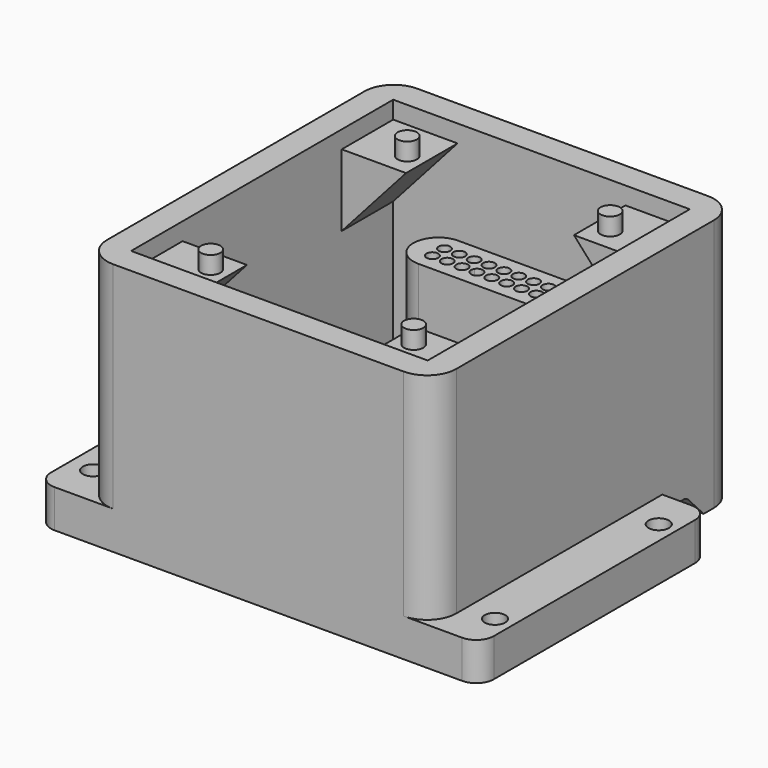
from build123d import *

# Parameters (mm, degrees)
F2_DEPTH  = 6.5
F4_DEPTH  = 21.5
F6_DEPTH  = 67.701
F7_R      = 1
F9_DEPTH  = 26
F10_W     = 11
F10_H     = 11
F11_DEPTH = 12.3
F13_DEPTH = 11
F15_DEPTH = 11
F17_DEPTH = 11
F19_DEPTH = 11
F20_R     = 1.65
F21_DEPTH = 3
F22_R     = 1.75
F23_DEPTH = 6.501
F25_DEPTH = 14


with BuildPart() as f2:
    # F1 (on Top) → F2 (new body)
    with BuildSketch(Plane.XY):
        with BuildLine():
            Line((-29.85, -32.5), (29.85, -32.5))
            Line((29.85, -32.5), (29.85, 16.5))
            Line((29.85, 16.5), (29.85, 27.5))
            ThreePointArc((29.85, 27.5), (28.3855339059, 31.0355339059), (24.85, 32.5))
            Line((24.85, 32.5), (-24.85, 32.5))
            ThreePointArc((-24.85, 32.5), (-28.3855339059, 31.0355339059), (-29.85, 27.5))
            Line((-29.85, 27.5), (-29.85, 16.5))
            Line((-29.85, 16.5), (-29.85, -32.5))
        make_face()
        with BuildLine():
            Line((-34.85, -32.5), (-29.85, -32.5))
            Line((-29.85, -32.5), (-29.85, 16.5))
            Line((-29.85, 16.5), (-34.85, 16.5))
            ThreePointArc((-34.85, 16.5), (-36.9713203436, 15.6213203436), (-37.85, 13.5))
            Line((-37.85, 13.5), (-37.85, -29.5))
            ThreePointArc((-37.85, -29.5), (-36.9713203436, -31.6213203436), (-34.85, -32.5))
        make_face()
        with BuildLine():
            Line((29.85, 16.5), (29.85, -32.5))
            Line((29.85, -32.5), (34.85, -32.5))
            ThreePointArc((34.85, -32.5), (36.9713203436, -31.6213203436), (37.85, -29.5))
            Line((37.85, -29.5), (37.85, 13.5))
            ThreePointArc((37.85, 13.5), (36.9713203436, 15.6213203436), (34.85, 16.5))
            Line((34.85, 16.5), (29.85, 16.5))
        make_face()
    extrude(amount=F2_DEPTH)

    # F3 (on face) → F4 (join)
    with BuildSketch(Plane.XY.offset(6.5)):
        with BuildLine():
            Line((-24.85, -32.5), (24.85, -32.5))
            ThreePointArc((24.85, -32.5), (28.3855339059, -31.0355339059), (29.85, -27.5))
            Line((29.85, -27.5), (29.85, 16.5))
            Line((29.85, 16.5), (29.85, 27.5))
            ThreePointArc((29.85, 27.5), (28.3855339059, 31.0355339059), (24.85, 32.5))
            Line((24.85, 32.5), (-24.85, 32.5))
            ThreePointArc((-24.85, 32.5), (-28.3855339059, 31.0355339059), (-29.85, 27.5))
            Line((-29.85, 27.5), (-29.85, 16.5))
            Line((-29.85, 16.5), (-29.85, -27.5))
            ThreePointArc((-29.85, -27.5), (-28.3855339059, -31.0355339059), (-24.85, -32.5))
        make_face()
        Polygon((25.35, 28), (25.35, -28), (-25.35, -28), (-25.35, 28), (-15.24, 28), (15.24, 28), align=None, mode=Mode.SUBTRACT)
        with BuildLine():
            ThreePointArc((-11.45, 24.54), (-15.72, 20.27), (-11.45, 16))
            Line((-11.45, 16), (11.41, 16))
            ThreePointArc((11.41, 16), (15.68, 20.27), (11.41, 24.54))
            Line((11.41, 24.54), (-11.45, 24.54))
        make_face()
    extrude(amount=F4_DEPTH)

    # F5 (on face) → F6 (cut, through all)
    with BuildSketch(Plane.YZ.offset(29.85)):
        with BuildLine():
            ThreePointArc((19.77, 3.0891519329), (19.2533881118, 3.6800026919), (18.5, 3.9))
            ThreePointArc((18.5, 3.9), (17.5100505063, 3.4899494937), (17.1, 2.5))
            ThreePointArc((17.1, 2.5), (18.1983379374, 1.132886252), (19.77, 1.9108480671))
            ThreePointArc((19.77, 1.9108480671), (19.64, 2.5), (19.77, 3.0891519329))
        make_face()
        with BuildLine():
            ThreePointArc((19.77, 1.9108480671), (18.1983379374, 1.132886252), (17.1, 2.5))
            Line((17.1, 2.5), (17.1, 0))
            Line((17.1, 0), (25.3425519913, 0))
            Line((25.3425519913, 0), (22.055509083, 3.4637122508))
            ThreePointArc((22.055509083, 3.4637122508), (22.3403293268, 3.0187905569), (22.44, 2.5))
            ThreePointArc((22.44, 2.5), (21.3416620626, 1.132886252), (19.77, 1.9108480671))
        make_face()
        with BuildLine():
            Line((21.04, 3.9), (18.5, 3.9))
            ThreePointArc((18.5, 3.9), (19.2533881118, 3.6800026919), (19.77, 3.0891519329))
            ThreePointArc((19.77, 3.0891519329), (20.2866118882, 3.6800026919), (21.04, 3.9))
        make_face()
        with BuildLine():
            ThreePointArc((21.04, 3.9), (20.2866118882, 3.6800026919), (19.77, 3.0891519329))
            ThreePointArc((19.77, 3.0891519329), (19.867113748, 2.8016620626), (19.9, 2.5))
            ThreePointArc((19.9, 2.5), (19.867113748, 2.1983379374), (19.77, 1.9108480671))
            ThreePointArc((19.77, 1.9108480671), (21.3416620626, 1.132886252), (22.44, 2.5))
            ThreePointArc((22.44, 2.5), (22.3403293268, 3.0187905569), (22.055509083, 3.4637122508))
            ThreePointArc((22.055509083, 3.4637122508), (21.5926313639, 3.7863120055), (21.04, 3.9))
        make_face()
        with BuildLine():
            ThreePointArc((19.9, 2.5), (19.867113748, 2.8016620626), (19.77, 3.0891519329))
            ThreePointArc((19.77, 3.0891519329), (19.64, 2.5), (19.77, 1.9108480671))
            ThreePointArc((19.77, 1.9108480671), (19.867113748, 2.1983379374), (19.9, 2.5))
        make_face()
    extrude(amount=-F6_DEPTH, mode=Mode.SUBTRACT)

    # F7 (on face) → F9 (cut)
    with BuildSketch(Plane.XY.offset(28)):
        with Locations((-1.29, 19)):
            Circle(F7_R)
        with Locations((-11.45, 19)):
            Circle(F7_R)
        with Locations((-8.91, 19)):
            Circle(F7_R)
        with BuildLine():
            ThreePointArc((-5.5306440941, 18.4564177493), (-5.5832558413, 18.8807732561), (-5.4072763794, 19.2704870242))
            ThreePointArc((-5.4072763794, 19.2704870242), (-7.3587112071, 19.1498337377), (-5.5306440941, 18.4564177493))
        make_face()
        with BuildLine():
            ThreePointArc((-5.5306440941, 18.4564177493), (-5.4110015887, 18.7165885552), (-5.37, 19))
            ThreePointArc((-5.37, 19), (-5.379362927, 19.1365217553), (-5.4072763794, 19.2704870242))
            ThreePointArc((-5.4072763794, 19.2704870242), (-5.5832558413, 18.8807732561), (-5.5306440941, 18.4564177493))
        make_face()
        with BuildLine():
            ThreePointArc((-4.0104824668, 18.7622771606), (-4.1975504388, 19.273052253), (-4.6702561531, 19.5421896321))
            ThreePointArc((-4.6702561531, 19.5421896321), (-4.8013330282, 18.7622771606), (-4.3248948959, 18.1310471578))
            ThreePointArc((-4.3248948959, 18.1310471578), (-4.093436152, 18.4096773549), (-4.0104824668, 18.7622771606))
        make_face()
        with BuildLine():
            ThreePointArc((-2.83, 19), (-3.5473837877, 19.9592330669), (-4.6702561531, 19.5421896321))
            ThreePointArc((-4.6702561531, 19.5421896321), (-4.1975504388, 19.273052253), (-4.0104824668, 18.7622771606))
            ThreePointArc((-4.0104824668, 18.7622771606), (-4.093436152, 18.4096773549), (-4.3248948959, 18.1310471578))
            ThreePointArc((-4.3248948959, 18.1310471578), (-3.3274539304, 18.1354495689), (-2.83, 19))
        make_face()
        with Locations((1.25, 19)):
            Circle(F7_R)
        with Locations((3.79, 19)):
            Circle(F7_R)
        with Locations((6.33, 19)):
            Circle(F7_R)
        with Locations((8.87, 19)):
            Circle(F7_R)
        with Locations((11.41, 19)):
            Circle(F7_R)
        with Locations((-11.45, 21.5807557106)):
            Circle(F7_R)
        with Locations((-8.91, 21.5807557106)):
            Circle(F7_R)
        with Locations((-6.37, 21.5807557106)):
            Circle(F7_R)
        with Locations((-3.83, 21.5807557106)):
            Circle(F7_R)
        with Locations((-1.29, 21.5807557106)):
            Circle(F7_R)
        with Locations((1.25, 21.5807557106)):
            Circle(F7_R)
        with Locations((3.79, 21.5807557106)):
            Circle(F7_R)
        with Locations((6.33, 21.5807557106)):
            Circle(F7_R)
        with Locations((8.87, 21.5807557106)):
            Circle(F7_R)
        with Locations((11.41, 21.5807557106)):
            Circle(F7_R)
    extrude(amount=-F9_DEPTH, mode=Mode.SUBTRACT)

    # F10 (on face) → F11 (join)
    with BuildSketch(Plane.XY.offset(28)):
        with BuildLine():
            Line((-29.85, 27.5), (-29.85, -27.5))
            ThreePointArc((-29.85, -27.5), (-28.3855339059, -31.0355339059), (-24.85, -32.5))
            Line((-24.85, -32.5), (24.85, -32.5))
            ThreePointArc((24.85, -32.5), (28.3855339059, -31.0355339059), (29.85, -27.5))
            Line((29.85, -27.5), (29.85, 27.5))
            ThreePointArc((29.85, 27.5), (28.3855339059, 31.0355339059), (24.85, 32.5))
            Line((24.85, 32.5), (-24.85, 32.5))
            ThreePointArc((-24.85, 32.5), (-28.3855339059, 31.0355339059), (-29.85, 27.5))
        make_face()
        Polygon((-25.35, 17), (-25.35, 28), (-14.35, 28), (14.35, 28), (25.35, 28), (25.35, 17), (25.35, -17), (25.35, -28), (14.35, -28), (-14.35, -28), (-25.35, -28), (-25.35, -17), align=None, mode=Mode.SUBTRACT)
        with Locations((-19.85, 22.5)):
            Rectangle(F10_W, F10_H)
        with Locations((19.85, 22.5)):
            Rectangle(F10_W, F10_H)
        with Locations((-19.85, -22.5)):
            Rectangle(F10_W, F10_H)
        with Locations((19.85, -22.5)):
            Rectangle(F10_W, F10_H)
    extrude(amount=F11_DEPTH)

    # F12 (on face) → F13 (cut)
    with BuildSketch(Plane.XZ.offset(-17)):
        Polygon((-14.35, 28), (-14.35, 40.3), (-25.35, 28), align=None)
    extrude(amount=-F13_DEPTH, mode=Mode.SUBTRACT)

    # F14 (on face) → F15 (cut)
    with BuildSketch(Plane.XZ.offset(-17)):
        Polygon((25.35, 28), (14.35, 40.3), (14.35, 28), align=None)
    extrude(amount=-F15_DEPTH, mode=Mode.SUBTRACT)

    # F16 (on face) → F17 (cut)
    with BuildSketch(Plane(origin=(0, -17, 0), x_dir=(-1, 0, 0), z_dir=(0, 1, 0))):
        Polygon((-14.35, 40.3), (-25.35, 28), (-14.35, 28), align=None)
    extrude(amount=-F17_DEPTH, mode=Mode.SUBTRACT)

    # F18 (on face) → F19 (cut)
    with BuildSketch(Plane(origin=(0, -17, 0), x_dir=(-1, 0, 0), z_dir=(0, 1, 0))):
        Polygon((25.35, 28), (14.35, 40.3), (14.35, 28), align=None)
    extrude(amount=-F19_DEPTH, mode=Mode.SUBTRACT)

    # F20 (on face) → F21 (join)
    with BuildSketch(Plane.XY.offset(40.3)):
        with BuildLine():
            ThreePointArc((-24.85, 32.5), (-28.3855339059, 31.0355339059), (-29.85, 27.5))
            Line((-29.85, 27.5), (-29.85, -27.5))
            ThreePointArc((-29.85, -27.5), (-28.3855339059, -31.0355339059), (-24.85, -32.5))
            Line((-24.85, -32.5), (24.85, -32.5))
            ThreePointArc((24.85, -32.5), (28.3855339059, -31.0355339059), (29.85, -27.5))
            Line((29.85, -27.5), (29.85, 27.5))
            ThreePointArc((29.85, 27.5), (28.3855339059, 31.0355339059), (24.85, 32.5))
            Line((24.85, 32.5), (-24.85, 32.5))
        make_face()
        Polygon((-25.35, 17), (-25.35, 28), (-14.35, 28), (14.35, 28), (25.35, 28), (25.35, 17), (25.35, -17), (25.35, -28), (14.35, -28), (-14.35, -28), (-25.35, -28), (-25.35, -17), align=None, mode=Mode.SUBTRACT)
        with BuildLine():
            ThreePointArc((-24.85, 32.5), (-28.3855339059, 31.0355339059), (-29.85, 27.5))
            Line((-29.85, 27.5), (-29.85, -27.5))
            ThreePointArc((-29.85, -27.5), (-28.3855339059, -31.0355339059), (-24.85, -32.5))
            Line((-24.85, -32.5), (24.85, -32.5))
            ThreePointArc((24.85, -32.5), (28.3855339059, -31.0355339059), (29.85, -27.5))
            Line((29.85, -27.5), (29.85, 27.5))
            ThreePointArc((29.85, 27.5), (28.3855339059, 31.0355339059), (24.85, 32.5))
            Line((24.85, 32.5), (-24.85, 32.5))
        make_face()
        Polygon((-25.35, 17), (-25.35, 28), (-14.35, 28), (14.35, 28), (25.35, 28), (25.35, 17), (25.35, -17), (25.35, -28), (14.35, -28), (-14.35, -28), (-25.35, -28), (-25.35, -17), align=None, mode=Mode.SUBTRACT)
        with Locations((-17.35, 21)):
            Circle(F20_R)
        with Locations((17.35, 21)):
            Circle(F20_R)
        with Locations((-17.35, -21)):
            Circle(F20_R)
        with Locations((17.35, -21)):
            Circle(F20_R)
    extrude(amount=F21_DEPTH)

    # F22 (on face) → F23 (cut, through all)
    with BuildSketch(Plane.XY.offset(6.5)):
        with Locations((-33.85, 9.5)):
            Circle(F22_R)
        with Locations((-33.85, -25.5)):
            Circle(F22_R)
        with Locations((34.85, 9.5)):
            Circle(F22_R)
        with Locations((34.85, -25.5)):
            Circle(F22_R)
    extrude(amount=-F23_DEPTH, mode=Mode.SUBTRACT)

    # F24 (on face) → F25 (cut)
    with BuildSketch(Plane(origin=(0, 32.5, 0), x_dir=(-1, 0, 0), z_dir=(0, 1, 0))):
        with BuildLine():
            ThreePointArc((-11.91, 2.5), (-10.16, 0.75), (-8.41, 2.5))
            ThreePointArc((-8.41, 2.5), (-10.16, 4.25), (-11.91, 2.5))
        make_face()
        with BuildLine():
            Line((-8.41, 0), (-8.41, 2.5))
            ThreePointArc((-8.41, 2.5), (-10.16, 0.75), (-11.91, 2.5))
            Line((-11.91, 2.5), (-11.91, 0))
            Line((-11.91, 0), (-8.41, 0))
        make_face()
        with BuildLine():
            ThreePointArc((-3.33, 2.5), (-5.08, 4.25), (-6.83, 2.5))
            ThreePointArc((-6.83, 2.5), (-5.08, 0.75), (-3.33, 2.5))
        make_face()
        with BuildLine():
            Line((-6.83, 2.5), (-6.83, 0))
            Line((-6.83, 0), (-3.33, 0))
            Line((-3.33, 0), (-3.33, 2.5))
            ThreePointArc((-3.33, 2.5), (-5.08, 0.75), (-6.83, 2.5))
        make_face()
        with BuildLine():
            ThreePointArc((1.75, 2.5), (0, 4.25), (-1.75, 2.5))
            ThreePointArc((-1.75, 2.5), (0, 0.75), (1.75, 2.5))
        make_face()
        with BuildLine():
            Line((-1.75, 2.5), (-1.75, 0))
            Line((-1.75, 0), (1.75, 0))
            Line((1.75, 0), (1.75, 2.5))
            ThreePointArc((1.75, 2.5), (0, 0.75), (-1.75, 2.5))
        make_face()
        with BuildLine():
            ThreePointArc((6.83, 2.5), (5.08, 4.25), (3.33, 2.5))
            ThreePointArc((3.33, 2.5), (5.08, 0.75), (6.83, 2.5))
        make_face()
        with BuildLine():
            Line((3.33, 2.5), (3.33, 0))
            Line((3.33, 0), (6.83, 0))
            Line((6.83, 0), (6.83, 2.5))
            ThreePointArc((6.83, 2.5), (5.08, 0.75), (3.33, 2.5))
        make_face()
        with BuildLine():
            ThreePointArc((8.41, 2.5), (10.16, 0.75), (11.91, 2.5))
            ThreePointArc((11.91, 2.5), (10.16, 4.25), (8.41, 2.5))
        make_face()
        with BuildLine():
            Line((8.41, 0), (11.91, 0))
            Line((11.91, 0), (11.91, 2.5))
            ThreePointArc((11.91, 2.5), (10.16, 0.75), (8.41, 2.5))
            Line((8.41, 2.5), (8.41, 0))
        make_face()
    extrude(amount=-F25_DEPTH, mode=Mode.SUBTRACT)


solid = f2.part
